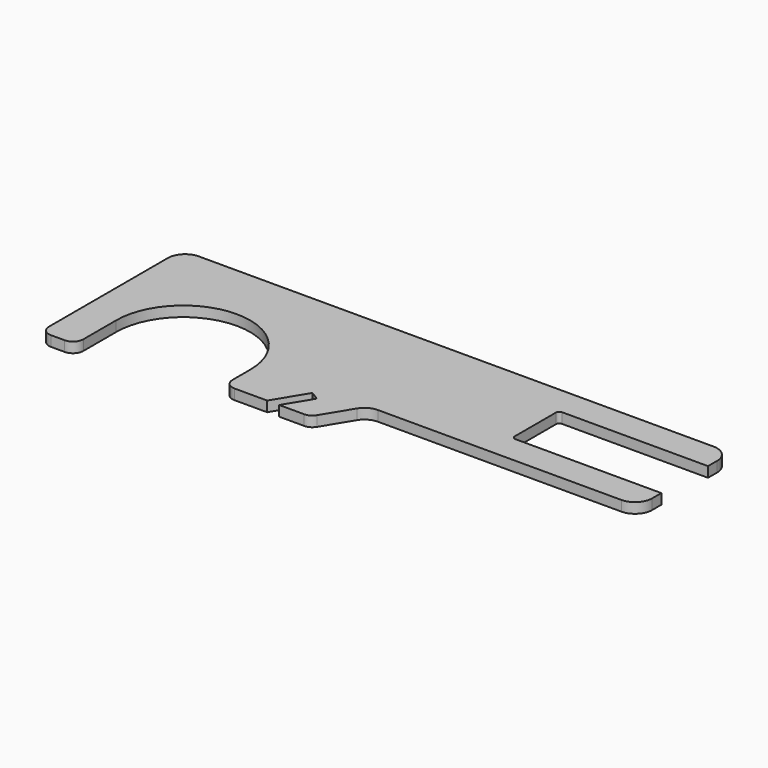
from build123d import *

# Parameters (mm, degrees)
F1_DEPTH = 3


with BuildPart() as f1:
    # F0 (on Top) → F1 (new body)
    with BuildSketch(Plane.XY):
        with BuildLine():
            ThreePointArc((-19.5, 0), (0, 19.5), (19.5, 0))
            Line((19.5, 0), (19.5, -6.427197))
            ThreePointArc((19.5, -6.427197), (20.37868, -8.548518), (22.5, -9.427197))
            Line((22.5, -9.427197), (32, -9.427197))
            Line((32, -9.427197), (32.02049, -9.427197))
            Line((32.02049, -9.427197), (37.690887, -0.054609))
            Line((37.690887, -0.054609), (40.257689, -1.607519))
            Line((40.257689, -1.607519), (35.526799, -9.427197))
            Line((35.526799, -9.427197), (42.808685, -9.427197))
            ThreePointArc((42.808685, -9.427197), (44.281992, -9.040503), (45.375487, -7.980107))
            Line((45.375487, -7.980107), (50.363487, 0.264549))
            ThreePointArc((50.363487, 0.264549), (52.185977, 2.031875), (54.64149, 2.676366))
            Line((54.64149, 2.676366), (125.5, 2.676366))
            ThreePointArc((125.5, 2.676366), (129.035534, 4.140832), (130.5, 7.676366))
            Line((130.5, 7.676366), (130.5, 11))
            Line((130.5, 11), (119, 11))
            Line((119, 11), (88, 11))
            ThreePointArc((88, 11), (87.292893, 11.292893), (87, 12))
            Line((87, 12), (87, 27))
            ThreePointArc((87, 27), (87.292893, 27.707107), (88, 28))
            Line((88, 28), (119, 28))
            Line((119, 28), (130.5, 28))
            Line((130.5, 28), (130.5, 31.323634))
            ThreePointArc((130.5, 31.323634), (129.035534, 34.859168), (125.5, 36.323634))
            Line((125.5, 36.323634), (-24.5, 36.323634))
            ThreePointArc((-24.5, 36.323634), (-28.035534, 34.859168), (-29.5, 31.323634))
            Line((-29.5, 31.323634), (-29.5, 21.5))
            Line((-29.5, 21.5), (-29.5, -12))
            ThreePointArc((-29.5, -12), (-28.62132, -14.12132), (-26.5, -15))
            Line((-26.5, -15), (-22.5, -15))
            ThreePointArc((-22.5, -15), (-20.37868, -14.12132), (-19.5, -12))
            Line((-19.5, -12), (-19.5, 0))
        make_face()
    extrude(amount=F1_DEPTH)


solid = f1.part
